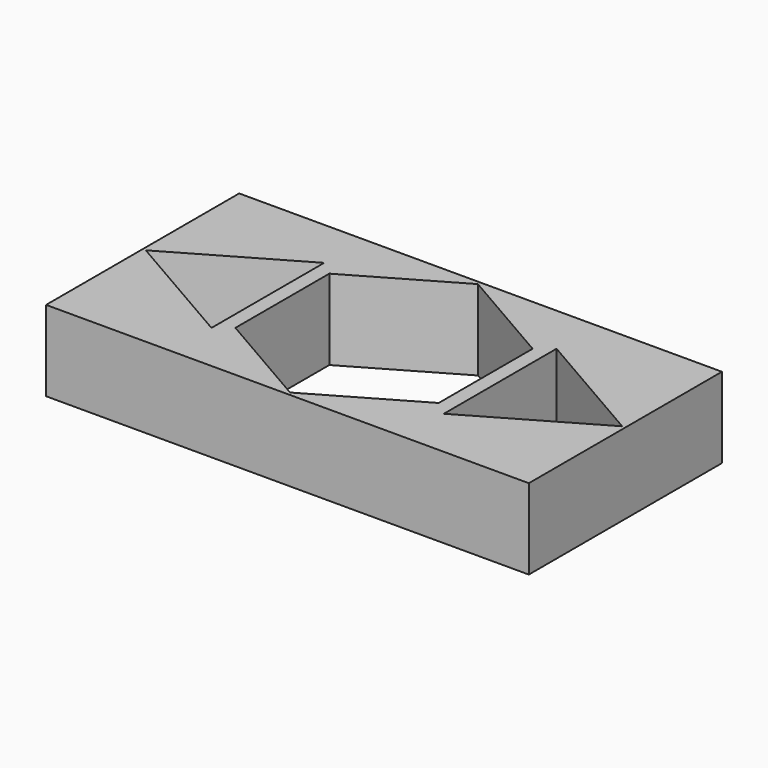
from build123d import *

# Parameters (mm, degrees)
F0_W     = 76.2
F0_H     = 38.1
F1_DEPTH = 12.7


with BuildPart() as f1:
    # F0 (on Top) → F1 (new body)
    with BuildSketch(Plane.XY):
        Rectangle(F0_W, F0_H)
        Polygon((0, -18.530461), (-16.04785, -9.265231), (-16.04785, 9.265231), (0, 18.530461), (16.04785, 9.265231), (16.04785, -9.265231), align=None, mode=Mode.SUBTRACT)
        Polygon((-37.597824, 0), (-18.340401, 11.118278), (-18.340401, -11.118278), align=None, mode=Mode.SUBTRACT)
        Polygon((37.597822, 0), (18.340405, -11.118275), (18.340405, 11.118275), align=None, mode=Mode.SUBTRACT)
    extrude(amount=F1_DEPTH)


solid = f1.part
